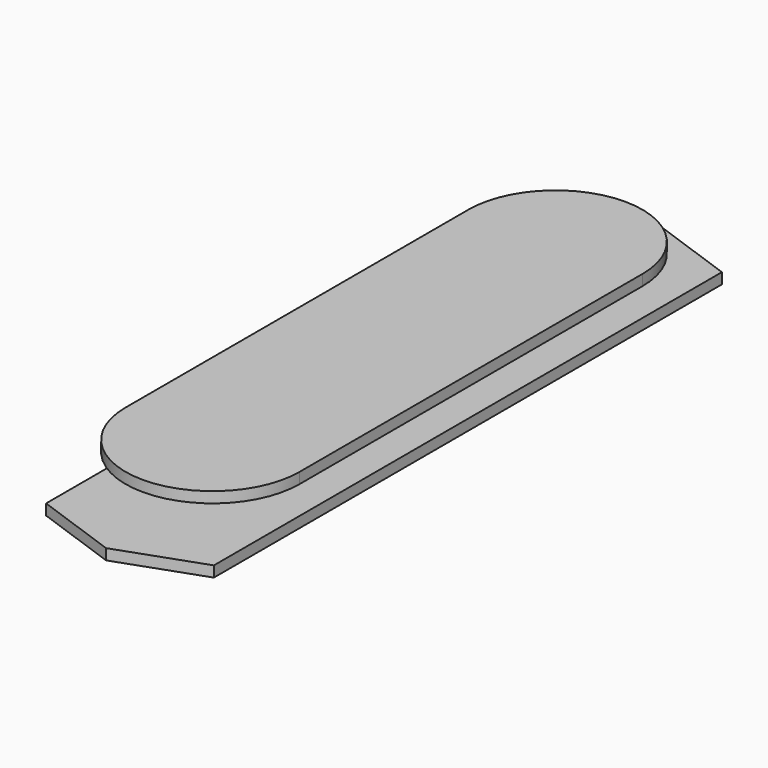
from build123d import *

# Parameters (mm, degrees)
F1_DEPTH = 7.62
F3_DEPTH = 1.5748
F5_DEPTH = 1.5748


with BuildPart() as f1:
    # F0 (on Top) → F1 (new body)
    with BuildSketch(Plane.XY):
        with BuildLine():
            ThreePointArc((-3.6195, 0), (-1.060127, 1.060127), (0, 3.6195))
            Line((0, 3.6195), (0, 66.2305))
            ThreePointArc((0, 66.2305), (-1.060127, 68.789873), (-3.6195, 69.85))
            ThreePointArc((-3.6195, 69.85), (-6.178873, 68.789873), (-7.239, 66.2305))
            Line((-7.239, 66.2305), (-7.239, 3.6195))
            ThreePointArc((-7.239, 3.6195), (-6.178873, 1.060127), (-3.6195, 0))
        make_face()
    extrude(amount=F1_DEPTH)

    # F2 (on face) → F3 (join)
    with BuildSketch(Plane(origin=(0, 0, 0), x_dir=(1, 0, 0), z_dir=(0, 0, -1))):
        Polygon((8.636, 11.456368), (-3.6195, 15.813879), (-15.875, 11.456368), (-15.875, -3.6195), (-15.875, -66.2305), (-15.875, -81.306368), (-3.6195, -85.663879), (8.636, -81.306368), (8.636, -66.2305), (8.636, -3.6195), align=None)
        with BuildLine():
            ThreePointArc((-7.239, -3.6195), (-3.6195, 0), (0, -3.6195))
            Line((0, -3.6195), (0, -66.2305))
            ThreePointArc((0, -66.2305), (-3.6195, -69.85), (-7.239, -66.2305))
            Line((-7.239, -66.2305), (-7.239, -3.6195))
        make_face(mode=Mode.SUBTRACT)
    extrude(amount=-F3_DEPTH)

    # F4 (on face) → F5 (join)
    with BuildSketch(Plane.XY.offset(7.62)):
        with BuildLine():
            ThreePointArc((9.0932, 66.2305), (-3.6195, 78.9432), (-16.3322, 66.2305))
            Line((-16.3322, 66.2305), (-16.3322, 3.6195))
            ThreePointArc((-16.3322, 3.6195), (-3.6195, -9.0932), (9.0932, 3.6195))
            Line((9.0932, 3.6195), (9.0932, 66.2305))
        make_face()
        with BuildLine():
            ThreePointArc((0, 3.6195), (-3.6195, 0), (-7.239, 3.6195))
            Line((-7.239, 3.6195), (-7.239, 66.2305))
            ThreePointArc((-7.239, 66.2305), (-3.6195, 69.85), (0, 66.2305))
            Line((0, 66.2305), (0, 3.6195))
        make_face(mode=Mode.SUBTRACT)
    extrude(amount=-F5_DEPTH)


solid = f1.part
